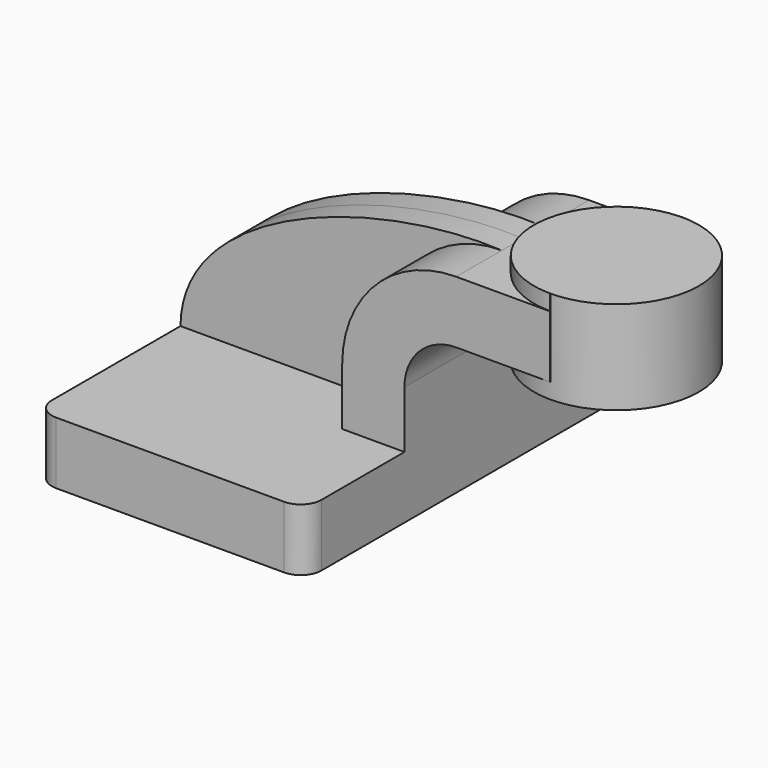
from build123d import *

# Parameters (mm, degrees)
F1_DEPTH = 63.5
F2_DEPTH = 25.4
F3_DEPTH = 7.9375
F5_R     = 6.35


with BuildPart() as f1:
    # F0 (on Front) → F1 (new body, symmetric)
    with BuildSketch(Plane.XZ):
        Polygon((22.225, 9.525), (-41.275, 9.525), (-41.275, -9.525), (41.275, -9.525), (41.275, 9.525), align=None)
    extrude(amount=F1_DEPTH, both=True)

    # F0 (on Front) → F2 (join, symmetric)
    with BuildSketch(Plane.XZ):
        with BuildLine():
            Line((22.225, 27.0002), (22.225, 9.525))
            Line((22.225, 9.525), (41.275, 9.525))
            Line((41.275, 9.525), (41.275, 27.0002))
            ThreePointArc((41.275, 27.0002), (45.92468, 38.22552), (57.15, 42.8752))
            Line((57.15, 42.8752), (60.325, 42.8752))
            Line((60.325, 42.8752), (60.325, 61.9252))
            Line((60.325, 61.9252), (57.15, 61.9252))
            ThreePointArc((57.15, 61.9252), (32.454296, 51.695904), (22.225, 27.0002))
        make_face()
        Polygon((85.725, 61.9252), (60.325, 61.9252), (60.325, 42.8752), (85.856743, 42.8752), (85.856743, 66.675), align=None)
    extrude(amount=F2_DEPTH, both=True)

    # F0 (on Front) → F3 (join, symmetric)
    with BuildSketch(Plane.XZ):
        with BuildLine():
            add(Edge.make_bspline(
                [(-41.275, 9.525), (-40.941577, 44.262514), (18.654799, 63.887976), (57.15, 61.9252)],
                knots=[0, 0, 0, 0, 111.504536, 111.504536, 111.504536, 111.504536], degree=3))
            Line((-41.275, 9.525), (22.225, 9.525))
            Line((22.225, 9.525), (22.225, 27.0002))
            ThreePointArc((22.225, 27.0002), (32.454296, 51.695904), (57.15, 61.9252))
        make_face()
    extrude(amount=F3_DEPTH, both=True)

    # F5
    f5_edges = [f1.edges().sort_by_distance(p)[0] for p in [
        (-41.275, -63.5, 0),
        (41.275, -63.5, 0),
        (41.275, 63.5, 0),
        (-41.275, 63.5, 0),
    ]]
    fillet(f5_edges, radius=F5_R)


with BuildPart() as f4:
    # F0 (on Front) → F4 (revolve)
    with BuildSketch(Plane.XZ):
        Polygon((111.125, 66.675), (85.856743, 66.675), (85.856743, 42.8752), (85.856743, 38.1), (111.125, 38.1), align=None)
    revolve(axis=Axis((85.856743, 0, 52.3875), (0, 0, 1)))


solid = Compound([f1.part, f4.part])
